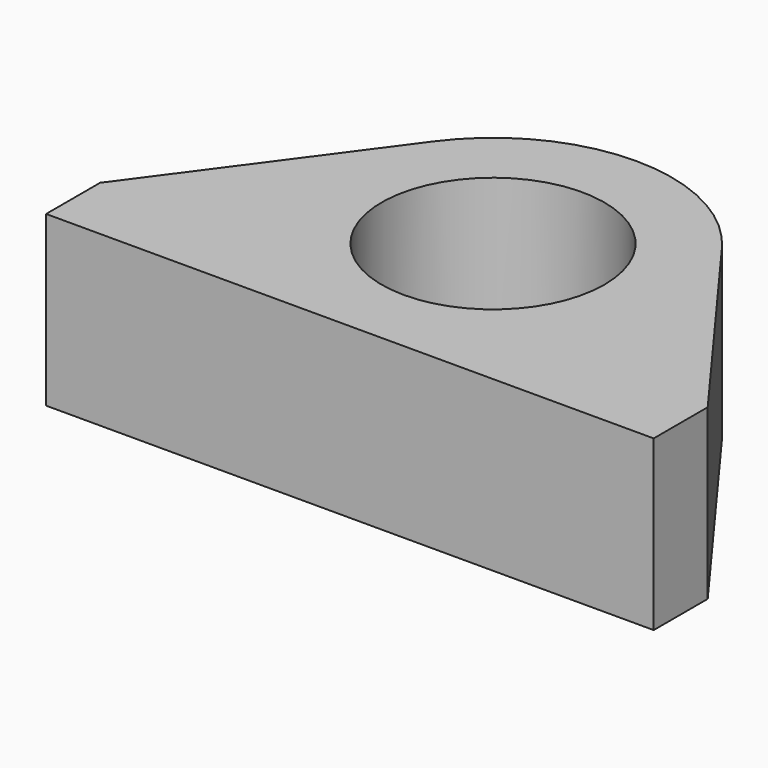
from build123d import *

# Parameters (mm, degrees)
F1_DEPTH = 25


with BuildPart() as f1:
    # F0 (on Top) → F1 (new body)
    with BuildSketch(Plane.XY):
        with BuildLine():
            Line((-20.7364413533, -16.5), (0, -16.5))
            Line((0, -16.5), (20.7364413533, -16.5))
            ThreePointArc((20.7364413533, -16.5), (25.0176507277, -8.7388301316), (26.5, 0))
            ThreePointArc((26.5, 0), (25.181622021, 8.2544480367), (21.3576669894, 15.6875766379))
            ThreePointArc((21.3576669894, 15.6875766379), (0, 26.5), (-21.3576669894, 15.6875766379))
            ThreePointArc((-21.3576669894, 15.6875766379), (-26.4950658, -0.5113592207), (-20.7364413533, -16.5))
        make_face()
        with BuildLine():
            ThreePointArc((0, -16.5), (-11.6672618896, 11.6672618896), (16.5, 0))
            ThreePointArc((16.5, 0), (11.6672618896, -11.6672618896), (0, -16.5))
        make_face(mode=Mode.SUBTRACT)
        with BuildLine():
            Line((20.7364413533, -16.5), (0, -16.5))
            Line((0, -16.5), (0, -26.5))
            ThreePointArc((0, -26.5), (11.5108644332, -23.8694365246), (20.7364413533, -16.5))
        make_face()
        with BuildLine():
            Line((0, -26.5), (0, -16.5))
            Line((0, -16.5), (-20.7364413533, -16.5))
            ThreePointArc((-20.7364413533, -16.5), (-11.5108644332, -23.8694365246), (0, -26.5))
        make_face()
        with BuildLine():
            Line((45, -16.5), (20.7364413533, -16.5))
            ThreePointArc((20.7364413533, -16.5), (11.5108644332, -23.8694365246), (0, -26.5))
            Line((0, -26.5), (45, -26.5))
            Line((45, -26.5), (45, -16.5))
        make_face()
        with BuildLine():
            ThreePointArc((26.5, 0), (25.0176507277, -8.7388301316), (20.7364413533, -16.5))
            Line((20.7364413533, -16.5), (45, -16.5))
            Line((45, -16.5), (21.3576669894, 15.6875766379))
            ThreePointArc((21.3576669894, 15.6875766379), (25.181622021, 8.2544480367), (26.5, 0))
        make_face()
        with BuildLine():
            Line((-45, -26.5), (0, -26.5))
            ThreePointArc((0, -26.5), (-11.5108644332, -23.8694365246), (-20.7364413533, -16.5))
            Line((-20.7364413533, -16.5), (-45, -16.5))
            Line((-45, -16.5), (-45, -26.5))
        make_face()
        with BuildLine():
            Line((-45, -16.5), (-20.7364413533, -16.5))
            ThreePointArc((-20.7364413533, -16.5), (-26.4950658, -0.5113592207), (-21.3576669894, 15.6875766379))
            Line((-21.3576669894, 15.6875766379), (-45, -16.5))
        make_face()
    extrude(amount=F1_DEPTH)


solid = f1.part
